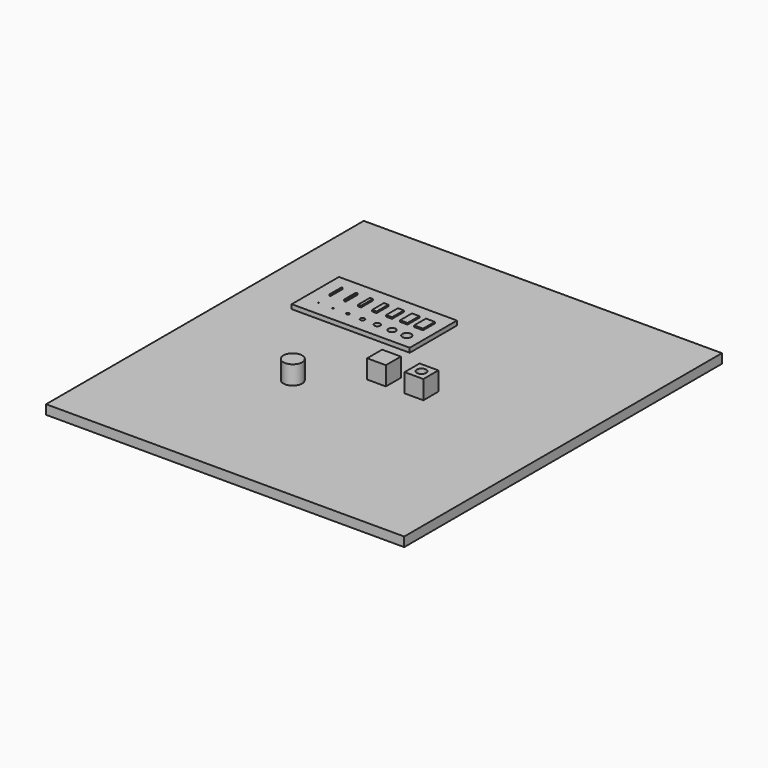
from build123d import *

# Parameters (mm, degrees)
F0_W      = 242.824
F0_H      = 269.24
F1_DEPTH  = 6.35
F2_W      = 12.7
F2_H      = 12.7
F3_DEPTH  = 12.7
F4_W      = 12.7
F4_H      = 12.7
F4_R      = 3.175
F5_DEPTH  = 12.7
F6_R      = 6.35
F7_DEPTH  = 12.7
F8_W      = 80
F8_H      = 40
F8_R      = 0.25
F8_R_2    = 0.5
F8_W_2    = 0.5
F8_H_2    = 10
F8_W_3    = 1
F8_R_3    = 1
F8_R_4    = 1.5
F8_R_5    = 2
F8_W_4    = 2
F8_W_5    = 3
F8_W_6    = 4
F8_R_6    = 2.5
F8_R_7    = 3
F8_W_7    = 5
F8_W_8    = 6
F9_DEPTH  = 3
F10_DEPTH = 4


with BuildPart() as f1:
    # F0 (on Top) → F1 (new body)
    with BuildSketch(Plane.XY):
        Rectangle(F0_W, F0_H)
    extrude(amount=F1_DEPTH)


with BuildPart() as f3:
    # F2 (on face) → F3 (new body)
    with BuildSketch(Plane.XY.offset(6.35)):
        Rectangle(F2_W, F2_H)
    extrude(amount=F3_DEPTH)


with BuildPart() as f5:
    # F4 (on face) → F5 (new body)
    with BuildSketch(Plane.XY.offset(6.35)):
        with Locations((25.4, 0)):
            Rectangle(F4_W, F4_H)
        with Locations((25.4, 0)):
            Circle(F4_R, mode=Mode.SUBTRACT)
    extrude(amount=F5_DEPTH)


with BuildPart() as f7:
    # F6 (on face) → F7 (new body)
    with BuildSketch(Plane.XY.offset(6.35)):
        with Locations((-36.6800241172, -31.4455367625)):
            Circle(F6_R)
    extrude(amount=F7_DEPTH)


with BuildPart() as f9:
    # F8 (on face) → F9 (new body)
    with BuildSketch(Plane.XY.offset(6.35)):
        with Locations((-47.9100285936, 51.7044578493)):
            Rectangle(F8_W, F8_H)
        with Locations((-77.9100285936, 41.7044578493)):
            Circle(F8_R, mode=Mode.SUBTRACT)
        with Locations((-67.9100285936, 41.7044578493)):
            Circle(F8_R_2, mode=Mode.SUBTRACT)
        with Locations((-77.9100285936, 56.7044578493)):
            Rectangle(F8_W_2, F8_H_2, mode=Mode.SUBTRACT)
        with Locations((-67.9100285936, 56.7044578493)):
            Rectangle(F8_W_3, F8_H_2, mode=Mode.SUBTRACT)
        with Locations((-57.9100285936, 41.7044578493)):
            Circle(F8_R_3, mode=Mode.SUBTRACT)
        with Locations((-47.9100285936, 41.7044578493)):
            Circle(F8_R_4, mode=Mode.SUBTRACT)
        with Locations((-37.9100285936, 41.7044578493)):
            Circle(F8_R_5, mode=Mode.SUBTRACT)
        with Locations((-57.9100285936, 56.7044578493)):
            Rectangle(F8_W_4, F8_H_2, mode=Mode.SUBTRACT)
        with Locations((-47.9100285936, 56.7044578493)):
            Rectangle(F8_W_5, F8_H_2, mode=Mode.SUBTRACT)
        with Locations((-37.9100285936, 56.7044578493)):
            Rectangle(F8_W_6, F8_H_2, mode=Mode.SUBTRACT)
        with Locations((-27.9100285936, 41.7044578493)):
            Circle(F8_R_6, mode=Mode.SUBTRACT)
        with Locations((-17.9100285936, 41.7044578493)):
            Circle(F8_R_7, mode=Mode.SUBTRACT)
        with Locations((-27.9100285936, 56.7044578493)):
            Rectangle(F8_W_7, F8_H_2, mode=Mode.SUBTRACT)
        with Locations((-17.9100285936, 56.7044578493)):
            Rectangle(F8_W_8, F8_H_2, mode=Mode.SUBTRACT)
    extrude(amount=F9_DEPTH)

    # F8 (on face) → F10 (join)
    with BuildSketch(Plane.XY.offset(6.35)):
        with Locations((-17.9100285936, 56.7044578493)):
            Rectangle(F8_W_8, F8_H_2)
        with Locations((-27.9100285936, 56.7044578493)):
            Rectangle(F8_W_7, F8_H_2)
        with Locations((-37.9100285936, 56.7044578493)):
            Rectangle(F8_W_6, F8_H_2)
        with Locations((-47.9100285936, 56.7044578493)):
            Rectangle(F8_W_5, F8_H_2)
        with Locations((-57.9100285936, 56.7044578493)):
            Rectangle(F8_W_4, F8_H_2)
        with Locations((-67.9100285936, 56.7044578493)):
            Rectangle(F8_W_3, F8_H_2)
        with Locations((-77.9100285936, 56.7044578493)):
            Rectangle(F8_W_2, F8_H_2)
    extrude(amount=F10_DEPTH)


solid = Compound([f1.part, f3.part, f5.part, f7.part, f9.part])
